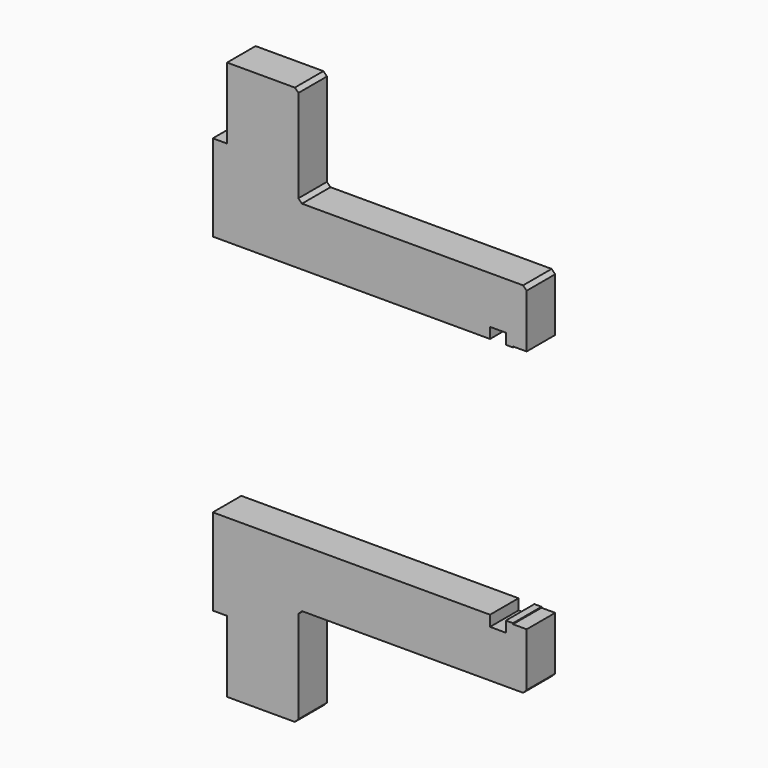
from build123d import *

# Parameters (mm, degrees)
F1_DEPTH = 25
F2_SIZE  = 2.5


with BuildPart() as f1:
    # F0 (on Front) → F1 (new body)
    with BuildSketch(Plane.XZ):
        Polygon((0, 55), (0, 0), (0, -5.645), (194.3, -5.645), (194.3, 1.855), (205.4, 1.855), (205.4, -5.645), (210.4, -5.645), (210.4, -5), (220, -5), (220, 35), (60, 35), (60, 105), (10, 105), (10, 55), align=None)
        Polygon((220, -176.42), (210.4, -176.42), (210.4, -175.775), (205.4, -175.775), (205.4, -183.275), (194.3, -183.275), (194.3, -175.775), (0, -175.775), (0, -181.42), (0, -236.42), (10, -236.42), (10, -286.42), (60, -286.42), (60, -216.42), (220, -216.42), align=None)
    extrude(amount=F1_DEPTH)

    # F2
    f2_edges = [f1.edges().sort_by_distance(p)[0] for p in [
        (60, -12.5, 35),
        (220, -12.5, 35),
        (60, -12.5, 105),
        (220, -12.5, -216.42),
        (60, -12.5, -216.42),
        (60, -12.5, -286.42),
    ]]
    chamfer(f2_edges, length=F2_SIZE)


solid = f1.part
